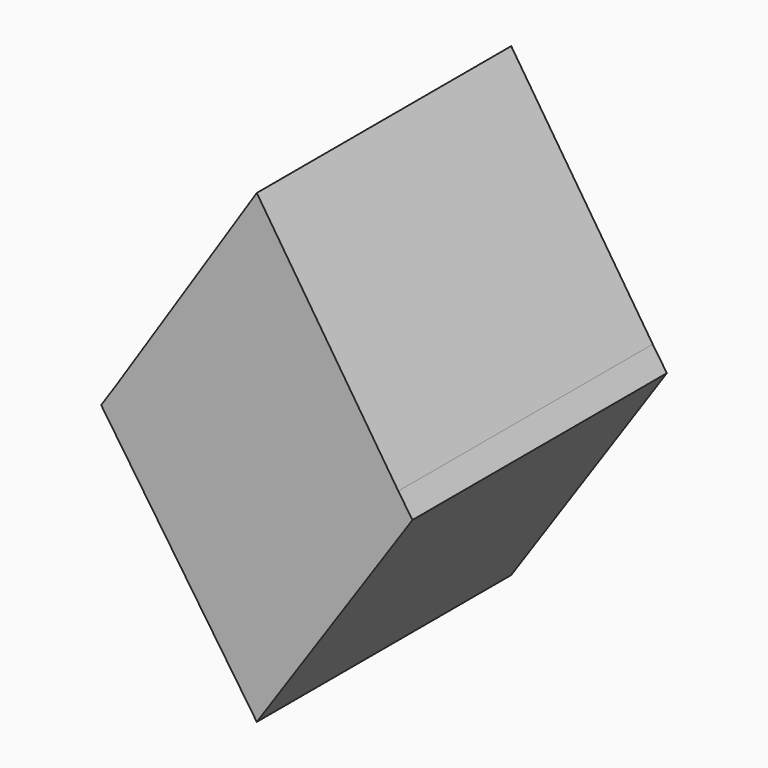
from build123d import *

# Parameters (mm, degrees)
F1_DEPTH  = 6.35
F2_DEPTH  = 6.35
F4_DEPTH  = 2.54
F5_DEPTH  = 17.78
F8_DEPTH  = 2.54
F9_DEPTH  = 22.86
F10_DEPTH = 25.4
F11_DEPTH = 25.4


with BuildPart() as f1:
    # F0 (on Front) → F1 (new body)
    with BuildSketch(Plane.XZ):
        with BuildLine():
            add(Edge.make_bspline(
                [(-6.31646486, -27.194801718), (-9.1682856642, -24.4888721836), (-15.01463102, -18.9416096965), (-26.1820827955, -11.5743265752), (-33.6944043342, -9.1980832111), (-37.3292528093, -8.048334159)],
                knots=[0, 0, 0, 0, 0.3295571506, 0.6756051833, 1, 1, 1, 1], degree=3))
            Line((-6.31646486, -27.194801718), (0, -29.8242773861))
            Line((0, -29.8242773861), (6.31646486, -27.194801718))
            add(Edge.make_bspline(
                [(6.31646486, -27.194801718), (9.1682856642, -24.4888721836), (15.01463102, -18.9416096965), (26.1820827955, -11.5743265752), (33.6944043342, -9.1980832111), (37.3292528093, -8.048334159)],
                knots=[0, 0, 0, 0, 0.3295571506, 0.6756051833, 1, 1, 1, 1], degree=3))
            Line((37.3292528093, -8.048334159), (37.3292528093, -3.7900002208))
            add(Edge.make_bspline(
                [(37.3292528093, -3.7900002208), (38.0491431813, -3.543982173), (39.5145632284, -3.0431840055), (42.5984180868, -2.1192699685), (42.5169275679, -2.0102551614), (42.508341372, -1.9987688866)],
                knots=[0, 0, 0, 0, 0.4634814578, 0.94347007, 1, 1, 1, 1], degree=3))
            add(Edge.make_bspline(
                [(42.508341372, -1.9987688866), (40.4226176054, -0.0574224426), (36.0974058378, 3.9683908595), (33.1087810716, 9.8160060059), (31.561344862, 12.8437569365)],
                knots=[0, 0, 0, 0, 0.4822246583, 1, 1, 1, 1], degree=3))
            add(Edge.make_bspline(
                [(31.561344862, 12.8437569365), (30.594199091, 12.4764083462), (28.7192506637, 11.7642513143), (27.1772169029, 10.7890902407), (26.4306031168, 10.3169418871)],
                knots=[0, 0, 0, 0, 0.5158252658, 1, 1, 1, 1], degree=3))
            Line((26.4306031168, 10.3169418871), (23.9546149969, 12.8437569365))
            add(Edge.make_bspline(
                [(23.9546149969, 12.8437569365), (21.8130862803, 11.5707804719), (17.2050472404, 8.8316506157), (12.6243071994, 4.0564626093), (10.1724090055, 1.5004837187)],
                knots=[0, 0, 0, 0, 0.4647375376, 1, 1, 1, 1], degree=3))
            Line((10.1724090055, 1.5004837187), (0, 17.0586332679))
            Line((0, 17.0586332679), (-10.1724090055, 1.5004837187))
            add(Edge.make_bspline(
                [(-23.9546149969, 12.8437569365), (-21.8130862803, 11.5707804719), (-17.2050472404, 8.8316506157), (-12.6243071994, 4.0564626093), (-10.1724090055, 1.5004837187)],
                knots=[0, 0, 0, 0, 0.4647375376, 1, 1, 1, 1], degree=3))
            Line((-23.9546149969, 12.8437569365), (-26.4306031168, 10.3169418871))
            add(Edge.make_bspline(
                [(-31.561344862, 12.8437569365), (-30.594199091, 12.4764083462), (-28.7192506637, 11.7642513143), (-27.1772169029, 10.7890902407), (-26.4306031168, 10.3169418871)],
                knots=[0, 0, 0, 0, 0.5158252658, 1, 1, 1, 1], degree=3))
            add(Edge.make_bspline(
                [(-42.508341372, -1.9987688866), (-40.4226176054, -0.0574224426), (-36.0974058378, 3.9683908595), (-33.1087810716, 9.8160060059), (-31.561344862, 12.8437569365)],
                knots=[0, 0, 0, 0, 0.4822246583, 1, 1, 1, 1], degree=3))
            add(Edge.make_bspline(
                [(-37.3292528093, -3.7900002208), (-38.0491431813, -3.543982173), (-39.5145632284, -3.0431840055), (-42.5984180868, -2.1192699685), (-42.5169275679, -2.0102551614), (-42.508341372, -1.9987688866)],
                knots=[0, 0, 0, 0, 0.4634814578, 0.94347007, 1, 1, 1, 1], degree=3))
            Line((-37.3292528093, -3.7900002208), (-37.3292528093, -8.048334159))
        make_face()
    extrude(amount=F1_DEPTH)


with BuildPart() as f1b:
    # F0 (on Front) → F1, piece 2 (new body)
    with BuildSketch(Plane.XZ):
        with BuildLine():
            add(Edge.make_bspline(
                [(-18.6576042324, -145.0307071209), (-16.4470923737, -143.6168373627), (-11.8703765425, -140.6895153127), (-8.9461028405, -135.445167753), (-7.4342265725, -132.7337920666)],
                knots=[0, 0, 0, 0, 0.4829908476, 1, 1, 1, 1], degree=3))
            Line((-18.6576042324, -145.0307071209), (-18.2394590229, -148.4000682831))
            Line((-18.2394590229, -148.4000682831), (-10.7216006145, -152.8928130865))
            Line((-10.7216006145, -152.8928130865), (-8.8469898328, -151.1953920126))
            add(Edge.make_bspline(
                [(0, -156.4966738224), (-1.9608597417, -156.2050199351), (-5.7919516765, -155.6351918991), (-7.8448312846, -152.6518004701), (-8.8469898328, -151.1953920126)],
                knots=[0, 0, 0, 0, 0.5118279005, 1, 1, 1, 1], degree=3))
            add(Edge.make_bspline(
                [(0, -156.4966738224), (1.9608597417, -156.2050199351), (5.7919516765, -155.6351918991), (7.8448312846, -152.6518004701), (8.8469898328, -151.1953920126)],
                knots=[0, 0, 0, 0, 0.5118279005, 1, 1, 1, 1], degree=3))
            Line((8.8469898328, -151.1953920126), (10.7216006145, -152.8928130865))
            Line((10.7216006145, -152.8928130865), (18.2394590229, -148.4000682831))
            Line((18.2394590229, -148.4000682831), (18.6576042324, -145.0307071209))
            add(Edge.make_bspline(
                [(18.6576042324, -145.0307071209), (16.4470923737, -143.6168373627), (11.8703765425, -140.6895153127), (8.9461028405, -135.445167753), (7.4342265725, -132.7337920666)],
                knots=[0, 0, 0, 0, 0.4829908476, 1, 1, 1, 1], degree=3))
            Line((7.4342265725, -132.7337920666), (4.541859962, -130.4135769606))
            Line((4.541859962, -130.4135769606), (0, -130.4135769606))
            Line((0, -130.4135769606), (-4.541859962, -130.4135769606))
            Line((-4.541859962, -130.4135769606), (-7.4342265725, -132.7337920666))
        make_face()
    extrude(amount=F1_DEPTH)


with BuildPart() as f2:
    # F2 (new): a face of the model
    f2_faces = [f1.part.faces().sort_by_distance(p)[0] for p in [
        (0, 0, -5.0344679509),
    ]]
    extrude(f2_faces, amount=F2_DEPTH)


with BuildPart() as f2b:
    # F2#2 (new): a face of the model
    f2_2_faces = [f1b.part.faces().sort_by_distance(p)[0] for p in [
        (0, 0, -143.933409026),
    ]]
    extrude(f2_2_faces, amount=F2_DEPTH)


with BuildPart() as f1_1:
    add(f1.part)

    # F3 (on face) → F4 (join)
    with BuildSketch(Plane.XZ.offset(6.35)):
        with BuildLine():
            add(Edge.make_bspline(
                [(-26.4306031168, 10.3169418871), (-24.53023826, 9.3652181787), (-20.7503784131, 7.4722226216), (-15.975023215, 4.0917823159), (-12.273195981, 0.9667185074), (-11.187998578, 0)],
                knots=[0, 0, 0, 0, 0.2852309457, 0.5673294761, 0.8466572413, 0.8466572413, 0.8466572413, 0.8466572413], degree=3))
            add(Edge.make_bspline(
                [(-31.561344862, 12.8437569365), (-30.594199091, 12.4764083462), (-28.7192506637, 11.7642513143), (-27.1772169029, 10.7890902407), (-26.4306031168, 10.3169418871)],
                knots=[0, 0, 0, 0, 0.5158252658, 1, 1, 1, 1], degree=3))
            add(Edge.make_bspline(
                [(-42.508341372, -1.9987688866), (-40.4226176054, -0.0574224426), (-36.0974058378, 3.9683908595), (-33.1087810716, 9.8160060059), (-31.561344862, 12.8437569365)],
                knots=[0, 0, 0, 0, 0.4822246583, 1, 1, 1, 1], degree=3))
            add(Edge.make_bspline(
                [(-37.3292528093, -3.7900002208), (-38.0491431813, -3.543982173), (-39.5145632284, -3.0431840055), (-42.5984180868, -2.1192699685), (-42.5169275679, -2.0102551614), (-42.508341372, -1.9987688866)],
                knots=[0, 0, 0, 0, 0.4634814578, 0.94347007, 1, 1, 1, 1], degree=3))
            Line((-37.3292528093, -3.7900002208), (-37.3292528093, -8.048334159))
            add(Edge.make_bspline(
                [(-6.31646486, -27.194801718), (-9.1682856642, -24.4888721836), (-15.01463102, -18.9416096965), (-26.1820827955, -11.5743265752), (-33.6944043342, -9.1980832111), (-37.3292528093, -8.048334159)],
                knots=[0, 0, 0, 0, 0.3295571506, 0.6756051833, 1, 1, 1, 1], degree=3))
            Line((-6.31646486, -27.194801718), (0, -29.8242773861))
            Line((0, -29.8242773861), (6.31646486, -27.194801718))
            add(Edge.make_bspline(
                [(6.31646486, -27.194801718), (9.1682856642, -24.4888721836), (15.01463102, -18.9416096965), (26.1820827955, -11.5743265752), (33.6944043342, -9.1980832111), (37.3292528093, -8.048334159)],
                knots=[0, 0, 0, 0, 0.3295571506, 0.6756051833, 1, 1, 1, 1], degree=3))
            Line((37.3292528093, -8.048334159), (37.3292528093, -3.7900002208))
            add(Edge.make_bspline(
                [(37.3292528093, -3.7900002208), (38.0491431813, -3.543982173), (39.5145632284, -3.0431840055), (42.5984180868, -2.1192699685), (42.5169275679, -2.0102551614), (42.508341372, -1.9987688866)],
                knots=[0, 0, 0, 0, 0.4634814578, 0.94347007, 1, 1, 1, 1], degree=3))
            add(Edge.make_bspline(
                [(42.508341372, -1.9987688866), (40.4226176054, -0.0574224426), (36.0974058378, 3.9683908595), (33.1087810716, 9.8160060059), (31.561344862, 12.8437569365)],
                knots=[0, 0, 0, 0, 0.4822246583, 1, 1, 1, 1], degree=3))
            add(Edge.make_bspline(
                [(31.561344862, 12.8437569365), (30.594199091, 12.4764083462), (28.7192506637, 11.7642513143), (27.1772169029, 10.7890902407), (26.4306031168, 10.3169418871)],
                knots=[0, 0, 0, 0, 0.5158252658, 1, 1, 1, 1], degree=3))
            add(Edge.make_bspline(
                [(26.4306031168, 10.3169418871), (24.53023826, 9.3652181787), (20.7503784131, 7.4722226216), (15.975023215, 4.0917823159), (12.273195981, 0.9667185074), (11.187998578, 0)],
                knots=[0, 0, 0, 0, 0.2852309457, 0.5673294761, 0.8466572413, 0.8466572413, 0.8466572413, 0.8466572413], degree=3))
            add(Edge.make_bspline(
                [(11.187998578, 0), (10.5922570002, -0.5307001355), (10.2245255149, -0.8841646749), (9.8567940295, -1.2376292143)],
                knots=[0.8466572413, 0.8466572413, 0.8466572413, 0.8466572413, 1, 1, 1, 1], degree=3))
            Line((9.8567940295, -1.2376292143), (0, -16.4558514953))
            Line((0, -16.4558514953), (-9.8567940295, -1.2376292143))
            add(Edge.make_bspline(
                [(-11.187998578, 0), (-10.5922570002, -0.5307001355), (-10.2245255149, -0.8841646749), (-9.8567940295, -1.2376292143)],
                knots=[0.8466572413, 0.8466572413, 0.8466572413, 0.8466572413, 1, 1, 1, 1], degree=3))
        make_face()
        with BuildLine():
            Line((-10.1724090055, 1.5004837187), (-11.187998578, 0))
            add(Edge.make_bspline(
                [(-11.187998578, 0), (-10.5922570002, -0.5307001355), (-10.2245255149, -0.8841646749), (-9.8567940295, -1.2376292143)],
                knots=[0.8466572413, 0.8466572413, 0.8466572413, 0.8466572413, 1, 1, 1, 1], degree=3))
            Line((-9.8567940295, -1.2376292143), (0, -16.4558514953))
            Line((0, -16.4558514953), (9.8567940295, -1.2376292143))
            add(Edge.make_bspline(
                [(11.187998578, 0), (10.5922570002, -0.5307001355), (10.2245255149, -0.8841646749), (9.8567940295, -1.2376292143)],
                knots=[0.8466572413, 0.8466572413, 0.8466572413, 0.8466572413, 1, 1, 1, 1], degree=3))
            Line((11.187998578, 0), (10.1724090055, 1.5004837187))
            Line((10.1724090055, 1.5004837187), (0, 17.0586332679))
            Line((0, 17.0586332679), (-10.1724090055, 1.5004837187))
        make_face()
    extrude(amount=F4_DEPTH)


with BuildPart() as f5:
    # F5 (new): a face of the model
    f5_faces = [f1_1.part.faces().sort_by_distance(p)[0] for p in [
        (0, -8.89, -5.6400298016),
    ]]
    extrude(f5_faces, amount=-F5_DEPTH)


with BuildPart() as f1_2:
    add(f1_1.part)

    add(f5.part)  # F8 merges F5
    # F6 (on face) → F8 (join)
    with BuildSketch(Plane.XZ.offset(8.89)):
        Polygon((-10.1724090055, 1.5004837187), (-11.187998578, 0), (0, -16.4163466543), (11.187998578, 0), (10.1724090055, 1.5004837187), (0, 17.0586332679), align=None)
    extrude(amount=F8_DEPTH)

    # F9 (add): a face of the model
    f9_faces = [f1_2.faces().sort_by_distance(p)[0] for p in [
        (0, -11.43, 0.2055173709),
    ]]

    add(f2.part)  # F9 merges F2
    extrude(f9_faces, amount=-F9_DEPTH)

    # F7 (on face) + F4_face1 (on face) → F10 (cut)
    with BuildSketch(Plane.XZ.offset(8.89)):
        with BuildLine():
            Line((11.187998578, 0), (0, -16.4163466543))
            Line((0, -16.4163466543), (-11.187998578, 0))
            add(Edge.make_bspline(
                [(-26.4306031168, 10.3169418871), (-24.53023826, 9.3652181787), (-20.7503784131, 7.4722226216), (-15.975023215, 4.0917823159), (-12.273195981, 0.9667185074), (-11.187998578, 0)],
                knots=[0, 0, 0, 0, 0.2852309457, 0.5673294761, 0.8466572413, 0.8466572413, 0.8466572413, 0.8466572413], degree=3))
            add(Edge.make_bspline(
                [(-31.561344862, 12.8437569365), (-30.594199091, 12.4764083462), (-28.7192506637, 11.7642513143), (-27.1772169029, 10.7890902407), (-26.4306031168, 10.3169418871)],
                knots=[0, 0, 0, 0, 0.5158252658, 1, 1, 1, 1], degree=3))
            add(Edge.make_bspline(
                [(-42.508341372, -1.9987688866), (-40.4226176054, -0.0574224426), (-36.0974058378, 3.9683908595), (-33.1087810716, 9.8160060059), (-31.561344862, 12.8437569365)],
                knots=[0, 0, 0, 0, 0.4822246583, 1, 1, 1, 1], degree=3))
            add(Edge.make_bspline(
                [(-37.3292528093, -3.7900002208), (-38.0491431813, -3.543982173), (-39.5145632284, -3.0431840055), (-42.5984180868, -2.1192699685), (-42.5169275679, -2.0102551614), (-42.508341372, -1.9987688866)],
                knots=[0, 0, 0, 0, 0.4634814578, 0.94347007, 1, 1, 1, 1], degree=3))
            Line((-37.3292528093, -3.7900002208), (-37.3292528093, -8.048334159))
            add(Edge.make_bspline(
                [(-6.31646486, -27.194801718), (-9.1682856642, -24.4888721836), (-15.01463102, -18.9416096965), (-26.1820827955, -11.5743265752), (-33.6944043342, -9.1980832111), (-37.3292528093, -8.048334159)],
                knots=[0, 0, 0, 0, 0.3295571506, 0.6756051833, 1, 1, 1, 1], degree=3))
            Line((-6.31646486, -27.194801718), (0, -29.8242773861))
            Line((0, -29.8242773861), (6.31646486, -27.194801718))
            add(Edge.make_bspline(
                [(6.31646486, -27.194801718), (9.1682856642, -24.4888721836), (15.01463102, -18.9416096965), (26.1820827955, -11.5743265752), (33.6944043342, -9.1980832111), (37.3292528093, -8.048334159)],
                knots=[0, 0, 0, 0, 0.3295571506, 0.6756051833, 1, 1, 1, 1], degree=3))
            Line((37.3292528093, -8.048334159), (37.3292528093, -3.7900002208))
            add(Edge.make_bspline(
                [(37.3292528093, -3.7900002208), (38.0491431813, -3.543982173), (39.5145632284, -3.0431840055), (42.5984180868, -2.1192699685), (42.5169275679, -2.0102551614), (42.508341372, -1.9987688866)],
                knots=[0, 0, 0, 0, 0.4634814578, 0.94347007, 1, 1, 1, 1], degree=3))
            add(Edge.make_bspline(
                [(42.508341372, -1.9987688866), (40.4226176054, -0.0574224426), (36.0974058378, 3.9683908595), (33.1087810716, 9.8160060059), (31.561344862, 12.8437569365)],
                knots=[0, 0, 0, 0, 0.4822246583, 1, 1, 1, 1], degree=3))
            add(Edge.make_bspline(
                [(31.561344862, 12.8437569365), (30.594199091, 12.4764083462), (28.7192506637, 11.7642513143), (27.1772169029, 10.7890902407), (26.4306031168, 10.3169418871)],
                knots=[0, 0, 0, 0, 0.5158252658, 1, 1, 1, 1], degree=3))
            add(Edge.make_bspline(
                [(26.4306031168, 10.3169418871), (24.53023826, 9.3652181787), (20.7503784131, 7.4722226216), (15.975023215, 4.0917823159), (12.273195981, 0.9667185074), (11.187998578, 0)],
                knots=[0, 0, 0, 0, 0.2852309457, 0.5673294761, 0.8466572413, 0.8466572413, 0.8466572413, 0.8466572413], degree=3))
        make_face()
    with BuildSketch(Plane(origin=(-18.4067170544, -6.35, 7.1196103379), x_dir=(1, 0, 0), z_dir=(0, -1, 0))):
        with BuildLine():
            add(Edge.make_bspline(
                [(-8.0238860624, 3.1973315493), (-6.1235212057, 2.2456078409), (-2.3436613587, 0.3526122837), (2.4316938393, -3.027828022), (6.1335210734, -6.1528918305), (7.2187184764, -7.1196103379)],
                knots=[0, 0, 0, 0, 0.2852309457, 0.5673294761, 0.8466572413, 0.8466572413, 0.8466572413, 0.8466572413], degree=3))
            Line((7.2187184764, -7.1196103379), (8.2343080489, -5.6191266192))
            add(Edge.make_bspline(
                [(-5.5478979425, 5.7241465986), (-3.4063692259, 4.4511701341), (1.201669814, 1.7120402779), (5.782409855, -3.0631477285), (8.2343080489, -5.6191266192)],
                knots=[0, 0, 0, 0, 0.4647375376, 1, 1, 1, 1], degree=3))
            Line((-5.5478979425, 5.7241465986), (-8.0238860624, 3.1973315493))
        make_face()
        with BuildLine():
            Line((44.8373201711, 3.1973315493), (42.3613320513, 5.7241465986))
            add(Edge.make_bspline(
                [(42.3613320513, 5.7241465986), (40.2198033346, 4.4511701341), (35.6117642948, 1.7120402779), (31.0310242537, -3.0631477285), (28.5791260598, -5.6191266192)],
                knots=[0, 0, 0, 0, 0.4647375376, 1, 1, 1, 1], degree=3))
            Line((28.5791260598, -5.6191266192), (29.5947156323, -7.1196103379))
            add(Edge.make_bspline(
                [(44.8373201711, 3.1973315493), (42.9369553144, 2.2456078409), (39.1570954675, 0.3526122837), (34.3817402694, -3.027828022), (30.6799130354, -6.1528918305), (29.5947156323, -7.1196103379)],
                knots=[0, 0, 0, 0, 0.2852309457, 0.5673294761, 0.8466572413, 0.8466572413, 0.8466572413, 0.8466572413], degree=3))
        make_face()
    extrude(amount=-F10_DEPTH, mode=Mode.SUBTRACT)


with BuildPart() as f11_tool:
    # F11 (cut): a face of the model
    f11_faces = [f1b.part.faces().sort_by_distance(p)[0] for p in [
        (0, -6.35, -143.933409026),
    ]]
    extrude(f11_faces, amount=-F11_DEPTH)


with BuildPart() as f1b_1:
    add(f1b.part)

    # F11: cut by f11_tool
    add(f11_tool.part, mode=Mode.SUBTRACT)


with BuildPart() as f2b_1:
    add(f2b.part)

    # F11: cut by f11_tool
    add(f11_tool.part, mode=Mode.SUBTRACT)


solid = f1_2.part
